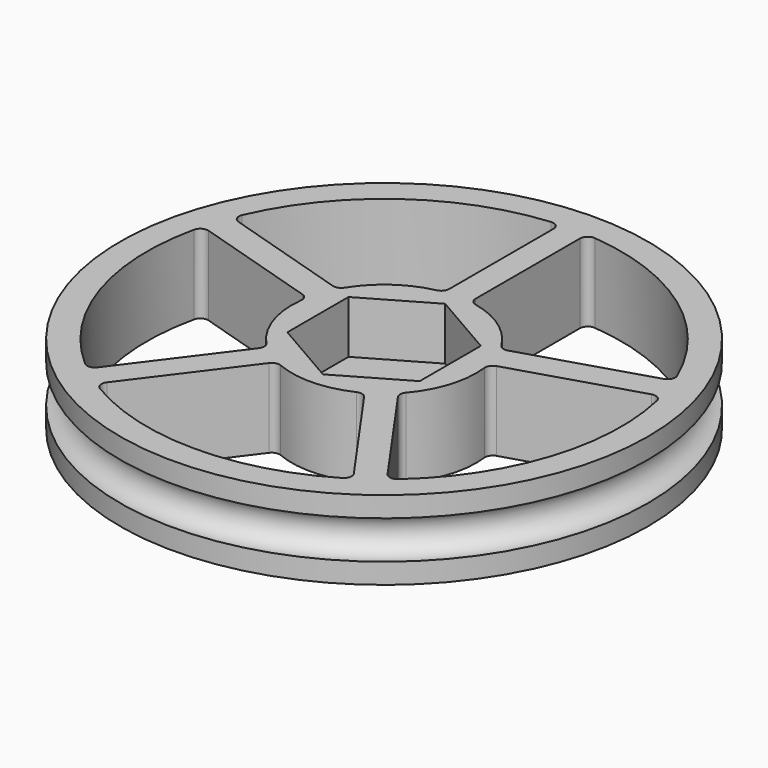
from build123d import *

# Parameters (mm, degrees)
F0_R     = 25.447764
F1_DEPTH = 7.62
F0_R_2   = 1.905
F2_DEPTH = 2.54
F4_R     = 1.8415


with BuildPart() as f1:
    # F0 (on Top) → F1 (new body)
    with BuildSketch(Plane.XY):
        Circle(F0_R)
        with BuildLine():
            ThreePointArc((-15.074386, -17.193977), (-21.736663, -7.098412), (-22.316716, 4.983389))
            ThreePointArc((-22.316716, 4.983389), (-21.955689, 5.476274), (-21.348665, 5.545541))
            Line((-21.348665, 5.545541), (-9.361943, 1.852396))
            ThreePointArc((-9.361943, 1.852396), (-8.947922, 1.540235), (-8.829496, 1.035425))
            ThreePointArc((-8.829496, 1.035425), (-8.445105, -2.777104), (-6.491723, -6.073684))
            ThreePointArc((-6.491723, -6.073684), (-6.287275, -6.553007), (-6.438668, -7.051635))
            Line((-6.438668, -7.051635), (-13.962558, -17.078354))
            ThreePointArc((-13.962558, -17.078354), (-14.493227, -17.378917), (-15.074386, -17.193977))
        make_face(mode=Mode.SUBTRACT)
        with BuildLine():
            Line((-11.892139, -18.55065), (-4.316171, -8.45453))
            ThreePointArc((-4.316171, -8.45453), (-3.90732, -8.176769), (-3.41405, -8.208311))
            ThreePointArc((-3.41405, -8.208311), (0.194774, -8.887866), (3.770364, -8.050867))
            ThreePointArc((3.770364, -8.050867), (4.289406, -8.004544), (4.716846, -8.302613))
            Line((4.716846, -8.302613), (11.927812, -18.556683))
            ThreePointArc((11.927812, -18.556683), (12.049678, -19.154259), (11.694203, -19.649824))
            ThreePointArc((11.694203, -19.649824), (0.013149, -22.866346), (-11.671596, -19.66326))
            ThreePointArc((-11.671596, -19.66326), (-12.030108, -19.156162), (-11.892139, -18.55065))
        make_face(mode=Mode.SUBTRACT)
        with BuildLine():
            Line((13.967844, -17.042562), (6.706966, -6.717516))
            ThreePointArc((6.706966, -6.717516), (6.569141, -6.242843), (6.751568, -5.783462))
            ThreePointArc((6.751568, -5.783462), (8.503922, -2.591411), (8.829496, 1.035425))
            ThreePointArc((8.829496, 1.035425), (8.947922, 1.540235), (9.361943, 1.852395))
            Line((9.361943, 1.852395), (21.348665, 5.545541))
            ThreePointArc((21.348665, 5.545541), (21.955689, 5.476274), (22.316716, 4.983389))
            ThreePointArc((22.316716, 4.983389), (21.740741, -7.085911), (15.09415, -17.176629))
            ThreePointArc((15.09415, -17.176629), (14.501085, -17.360892), (13.967844, -17.042562))
        make_face(mode=Mode.SUBTRACT)
        with BuildLine():
            ThreePointArc((-1.27, 9.435681), (-1.439174, 8.956931), (-1.871579, 8.690759))
            ThreePointArc((-1.871579, 8.690759), (-5.121211, 7.266725), (-7.555153, 4.68527))
            ThreePointArc((-7.555153, 4.68527), (-7.935438, 4.373286), (-8.427105, 4.358645))
            Line((-8.427105, 4.358645), (-20.498814, 8.077976))
            ThreePointArc((-20.498814, 8.077976), (-20.966736, 8.487792), (-20.973365, 9.10977))
            ThreePointArc((-20.973365, 9.10977), (-13.407682, 18.523068), (-2.102049, 22.769527))
            ThreePointArc((-2.102049, 22.769527), (-1.518548, 22.57379), (-1.27, 22.010753))
            Line((-1.27, 22.010753), (-1.27, 9.435681))
        make_face(mode=Mode.SUBTRACT)
        Polygon((6.379143, -3.683), (0, -7.366), (-6.379143, -3.683), (-6.379143, 3.683), (0, 7.366), (6.379143, 3.683), align=None, mode=Mode.SUBTRACT)
        with BuildLine():
            Line((1.27, 9.435681), (1.27, 22.010753))
            ThreePointArc((1.27, 22.010753), (1.518548, 22.57379), (2.102049, 22.769527))
            ThreePointArc((2.102049, 22.769527), (13.407682, 18.523068), (20.973365, 9.10977))
            ThreePointArc((20.973365, 9.10977), (20.966736, 8.487792), (20.498814, 8.077976))
            Line((20.498814, 8.077976), (8.427105, 4.358645))
            ThreePointArc((8.427105, 4.358645), (7.935438, 4.373285), (7.555154, 4.68527))
            ThreePointArc((7.555154, 4.68527), (5.121212, 7.266725), (1.871579, 8.690759))
            ThreePointArc((1.871579, 8.690759), (1.439174, 8.956931), (1.27, 9.435681))
        make_face(mode=Mode.SUBTRACT)
    extrude(amount=F1_DEPTH)

    # F0 (on Top) → F2 (join)
    with BuildSketch(Plane.XY):
        Polygon((-6.379143, -3.683), (0, -7.366), (6.379143, -3.683), (6.379143, 3.683), (0, 7.366), (-6.379143, 3.683), align=None)
        Circle(F0_R_2, mode=Mode.SUBTRACT)
    extrude(amount=F2_DEPTH)


with BuildPart() as f5:
    # F4 (on Front) → F5 (revolve)
    with BuildSketch(Plane.XZ):
        with Locations((25.4, 3.81)):
            Circle(F4_R)
    revolve(axis=Axis((0, 0, -1.325227), (0, 0, -1)))


with BuildPart() as f1_1:
    add(f1.part)

    # F6: cut F5
    add(f5.part, mode=Mode.SUBTRACT)


solid = f1_1.part
